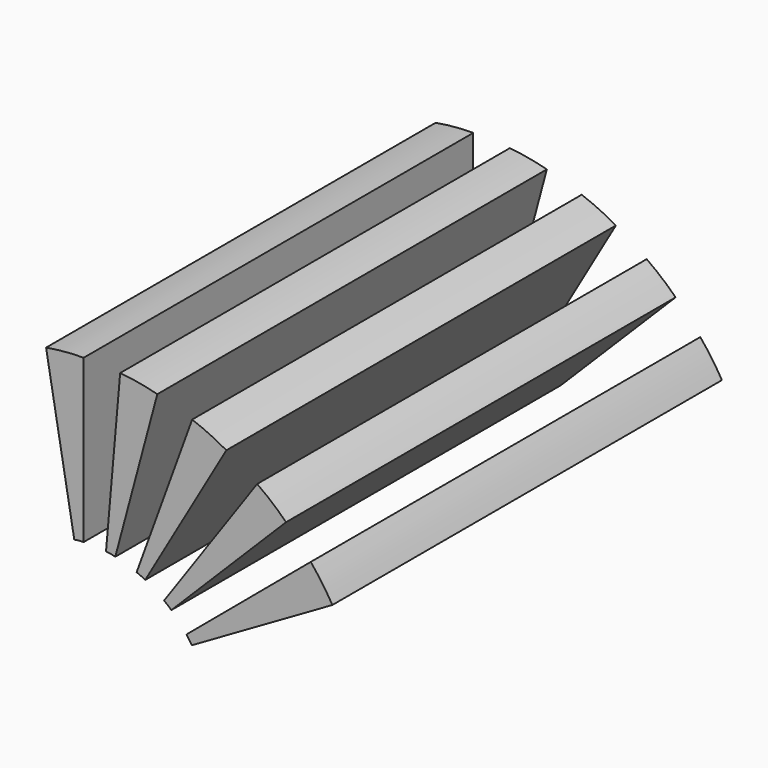
from build123d import *

# Parameters (mm, degrees)
BOX001027035_W               = 2
BOX001027035_H               = 20
BOX001027035_DEPTH           = 13
CYLINDER100_R                = 2
CYLINDER100_DEPTH            = 26
CYLINDER100_ROLL_ANGLE       = 90
CYLINDER101_R                = 8
CYLINDER101_DEPTH            = 18
CYLINDER101_ROLL_ANGLE       = 90
BOX001027034_W               = 13
BOX001027034_H               = 20
BOX001027034_DEPTH           = 2
BOX001027034_PLACEMENT_ANGLE = 80
COMMON044_PITCH_ANGLE        = 10
COMMON045_PLACEMENT_ANGLE    = 25
COMMON046_PITCH_ANGLE        = -20
COMMON047_PITCH_ANGLE        = -35
COMMON043_PITCH_ANGLE        = -5
FUSION099_PLACEMENT_ANGLE    = 25


with BuildPart() as cube055:
    # Box001027035 → Box001027035 (new body)
    with BuildSketch(Plane(origin=(0, -10, 0), x_dir=(1, 0, 0), z_dir=(0, 0, 1))):
        with Locations((1, 10)):
            Rectangle(BOX001027035_W, BOX001027035_H)
    extrude(amount=BOX001027035_DEPTH)


with BuildPart() as cylinder100:
    # Cylinder100 → Cylinder100 (new body)
    with BuildSketch(Plane.XY):
        Circle(CYLINDER100_R)
    extrude(amount=CYLINDER100_DEPTH)


with BuildPart() as cylinder100_1:
    # Cylinder100 roll: moved
    add(cylinder100.part.rotate(Axis((0, 0, 0), (1, 0, 0)), CYLINDER100_ROLL_ANGLE))


with BuildPart() as cylinder100_2:
    # Cylinder100 placement: moved
    add(cylinder100_1.part.moved(Location((0, 12, 0))))


with BuildPart() as cut052:
    # Cylinder101 → Cylinder101 (new body)
    with BuildSketch(Plane.XY):
        Circle(CYLINDER101_R)
    extrude(amount=CYLINDER101_DEPTH)


with BuildPart() as cut052_1:
    # Cylinder101 roll: moved
    add(cut052.part.rotate(Axis((0, 0, 0), (1, 0, 0)), CYLINDER101_ROLL_ANGLE))


with BuildPart() as cut052_2:
    # Cylinder101 placement: moved
    add(cut052_1.part.moved(Location((0, 9, 0))))

    # Cut052: cut Cylinder100
    add(cylinder100_2.part, mode=Mode.SUBTRACT)


with BuildPart() as cube054:
    # Box001027034 → Box001027034 (new body)
    with BuildSketch(Plane.XY):
        with Locations((6.5, 10)):
            Rectangle(BOX001027034_W, BOX001027034_H)
    extrude(amount=BOX001027034_DEPTH)


with BuildPart() as cube054_1:
    # Box001027034 placement: moved
    add(cube054.part.moved(Location((0, -10, 0))).rotate(Axis((0, -10, 0), (0, -1, 0)), BOX001027034_PLACEMENT_ANGLE))


with BuildPart() as common044:
    # Common044 base: copy of Cube054
    add(cube054_1.part)

    # Common044: intersect Cube055, Cut052
    add(cube055.part, mode=Mode.INTERSECT)
    add(cut052_2.part, mode=Mode.INTERSECT)


with BuildPart() as common044_1:
    # Common044 pitch: moved
    add(common044.part.rotate(Axis((0, 0, 0), (0, 1, 0)), COMMON044_PITCH_ANGLE))


with BuildPart() as common044_2:
    # Common044 placement: moved
    add(common044_1.part.moved(Location((0.647048, 0, 2.414815))))


with BuildPart() as common045:
    # Common045 base: copy of Cube054
    add(cube054_1.part)

    # Common045: intersect Cube055, Cut052
    add(cube055.part, mode=Mode.INTERSECT)
    add(cut052_2.part, mode=Mode.INTERSECT)


with BuildPart() as common045_1:
    # Common045 placement: moved
    add(common045.part.moved(Location((1.25, 0, 2.165064))).rotate(Axis((1.25, 0, 2.165064), (0, 1, 0)), COMMON045_PLACEMENT_ANGLE))


with BuildPart() as common046:
    # Common046 base: copy of Cube054
    add(cube054_1.part)

    # Common046: intersect Cube055, Cut052
    add(cube055.part, mode=Mode.INTERSECT)
    add(cut052_2.part, mode=Mode.INTERSECT)


with BuildPart() as common046_1:
    # Common046 pitch: moved
    add(common046.part.rotate(Axis((0, 0, 0), (0, 1, 0)), COMMON046_PITCH_ANGLE))


with BuildPart() as common046_2:
    # Common046 placement: moved
    add(common046_1.part.moved(Location((-0.647048, 0, 2.414815))))


with BuildPart() as common047:
    # Common047 base: copy of Cube054
    add(cube054_1.part)

    # Common047: intersect Cube055, Cut052
    add(cube055.part, mode=Mode.INTERSECT)
    add(cut052_2.part, mode=Mode.INTERSECT)


with BuildPart() as common047_1:
    # Common047 pitch: moved
    add(common047.part.rotate(Axis((0, 0, 0), (0, 1, 0)), COMMON047_PITCH_ANGLE))


with BuildPart() as common047_2:
    # Common047 placement: moved
    add(common047_1.part.moved(Location((-1.25, 0, 2.165064))))


with BuildPart() as strength_slots010:
    # Common043 base: copy of Cube054
    add(cube054_1.part)

    # Common043: intersect Cube055, Cut052
    add(cube055.part, mode=Mode.INTERSECT)
    add(cut052_2.part, mode=Mode.INTERSECT)


with BuildPart() as strength_slots010_1:
    # Common043 pitch: moved
    add(strength_slots010.part.rotate(Axis((0, 0, 0), (0, 1, 0)), COMMON043_PITCH_ANGLE))


with BuildPart() as strength_slots010_2:
    # Common043 placement: moved
    add(strength_slots010_1.part.moved(Location((0, 0, 2.5))))

    # Fusion099: union Common044, Common045, Common046, Common047
    add(common044_2.part)
    add(common045_1.part)
    add(common046_2.part)
    add(common047_2.part)


with BuildPart() as strength_slots010_3:
    # Fusion099 placement: moved
    add(strength_slots010_2.part.moved(Location((55, 0, -26))).rotate(Axis((55, 0, -26), (0, 1, 0)), FUSION099_PLACEMENT_ANGLE))


solid = strength_slots010_3.part
